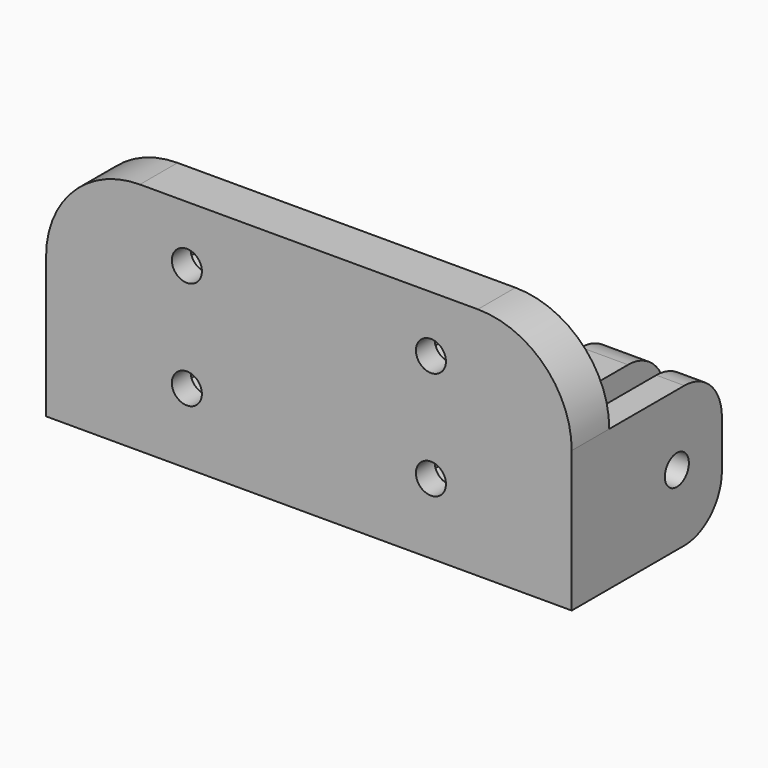
from build123d import *

# Parameters (mm, degrees)
F1_DEPTH  = 15
F2_R      = 1.6
F3_DEPTH  = 56.001
F5_DEPTH  = 2.5
F7_DEPTH  = 2.5
F8_W      = 56
F8_H      = 5
F9_DEPTH  = 10
F10_R     = 1.6
F11_DEPTH = 5.001
F13_DEPTH = 2.5
F14_R     = 10
F15_R     = 5


with BuildPart() as f1:
    # F0 (on Top) → F1 (new body)
    with BuildSketch(Plane.XY):
        Polygon((-28, 20), (-28, 0), (28, 0), (28, 20), (25, 20), (25, 5), (22, 5), (22, 20), (17, 20), (17, 5), (-17, 5), (-17, 20), (-22, 20), (-22, 5), (-25, 5), (-25, 20), align=None)
    extrude(amount=F1_DEPTH)

    # F2 (on face) → F3 (cut, through all)
    with BuildSketch(Plane(origin=(-28, 0, 0), x_dir=(0, -1, 0), z_dir=(-1, 0, 0))):
        with Locations((-14, 7.5)):
            Circle(F2_R)
    extrude(amount=-F3_DEPTH, mode=Mode.SUBTRACT)

    # F4 (on face) → F5 (cut)
    with BuildSketch(Plane.YZ.offset(-17)):
        Polygon((16.85, 5.854552), (16.85, 9.145448), (14, 10.790897), (11.15, 9.145448), (11.15, 5.854552), (14, 4.209103), align=None)
    extrude(amount=-F5_DEPTH, mode=Mode.SUBTRACT)

    # F6 (on face) → F7 (cut)
    with BuildSketch(Plane(origin=(17, 0, 0), x_dir=(0, -1, 0), z_dir=(-1, 0, 0))):
        Polygon((-11.15, 5.854552), (-11.15, 9.145448), (-14, 10.790897), (-16.85, 9.145448), (-16.85, 5.854552), (-14, 4.209103), align=None)
    extrude(amount=-F7_DEPTH, mode=Mode.SUBTRACT)

    # F8 (on face) → F9 (join)
    with BuildSketch(Plane.XY.offset(15)):
        with Locations((0, 2.5)):
            Rectangle(F8_W, F8_H)
    extrude(amount=F9_DEPTH)

    # F10 (on face) → F11 (cut, through all)
    with BuildSketch(Plane(origin=(0, 5, 0), x_dir=(-1, 0, 0), z_dir=(0, 1, 0))):
        with Locations((-13, 7.5)):
            Circle(F10_R)
        with Locations((13, 7.5)):
            Circle(F10_R)
        with Locations((-13, 19)):
            Circle(F10_R)
        with Locations((13, 19)):
            Circle(F10_R)
    extrude(amount=-F11_DEPTH, mode=Mode.SUBTRACT)

    # F12 (on face) → F13 (cut)
    with BuildSketch(Plane(origin=(0, 5, 0), x_dir=(-1, 0, 0), z_dir=(0, 1, 0))):
        Polygon((-10.15, 5.854552), (-10.15, 9.145448), (-13, 10.790897), (-15.85, 9.145448), (-15.85, 5.854552), (-13, 4.209103), align=None)
        Polygon((10.15, 9.145448), (10.15, 5.854552), (13, 4.209103), (15.85, 5.854552), (15.85, 9.145448), (13, 10.790897), align=None)
        Polygon((-15.85, 20.645448), (-15.85, 17.354552), (-13, 15.709103), (-10.15, 17.354552), (-10.15, 20.645448), (-13, 22.290897), align=None)
        Polygon((15.85, 17.354552), (15.85, 20.645448), (13, 22.290897), (10.15, 20.645448), (10.15, 17.354552), (13, 15.709103), align=None)
    extrude(amount=-F13_DEPTH, mode=Mode.SUBTRACT)

    # F14
    f14_edges = [f1.edges().sort_by_distance(p)[0] for p in [
        (28, 2.5, 25),
        (-28, 2.5, 25),
    ]]
    fillet(f14_edges, radius=F14_R)

    # F15
    f15_edges = [f1.edges().sort_by_distance(p)[0] for p in [
        (26.5, 20, 15),
        (19.5, 20, 15),
        (26.5, 20, 0),
        (19.5, 20, 0),
        (-19.5, 20, 0),
        (-26.5, 20, 0),
        (-26.5, 20, 15),
        (-19.5, 20, 15),
    ]]
    fillet(f15_edges, radius=F15_R)


solid = f1.part
